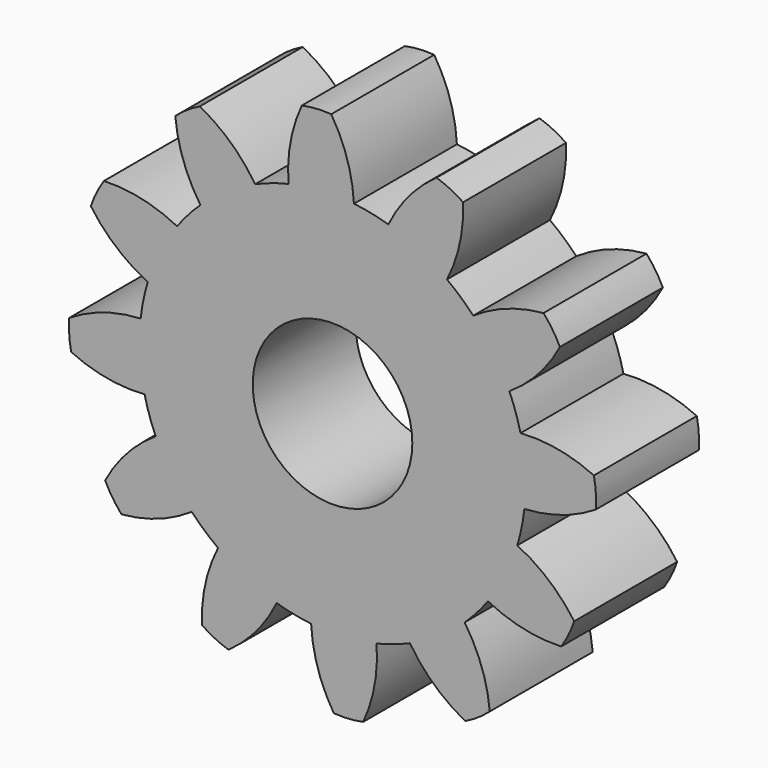
from build123d import *

# Parameters (mm, degrees)
F0_R     = 7.874
F1_DEPTH = 12.7
F2_COUNT = 12
F2_ANGLE = 330


with BuildPart() as f1:
    # F0 (on Front) → F1 (new body)
    with BuildSketch(Plane.XZ):
        with BuildLine():
            ThreePointArc((-4.346657, 18.547481), (-11.834244, -14.928267), (19.05, 0))
            ThreePointArc((19.05, 0), (14.198002, 12.701151), (2.113596, 18.932385))
            ThreePointArc((2.113596, 18.932385), (-1.132995, 19.016278), (-4.346657, 18.547481))
        make_face()
        Circle(F0_R, mode=Mode.SUBTRACT)
        with BuildLine():
            ThreePointArc((-4.346657, 18.547481), (-1.132995, 19.016278), (2.113596, 18.932385))
            ThreePointArc((2.113596, 18.932385), (1.449113, 22.600114), (-0.122141, 25.980192))
            ThreePointArc((-0.122141, 25.980192), (-1.581205, 25.98767), (-3.026812, 25.78981))
            ThreePointArc((-3.026812, 25.78981), (-4.150529, 22.253168), (-4.346657, 18.547481))
        make_face()
    extrude(amount=F1_DEPTH)

    # F2: F1 ×12 about axis
    f2_axis = Axis((0, 0, 0), (0, 1, 0))


with BuildPart() as f1_1:
    add(f1.part)
    for i in range(1, F2_COUNT):
        add(f1.part.rotate(f2_axis, i * F2_ANGLE / (F2_COUNT - 1)))


solid = f1_1.part
